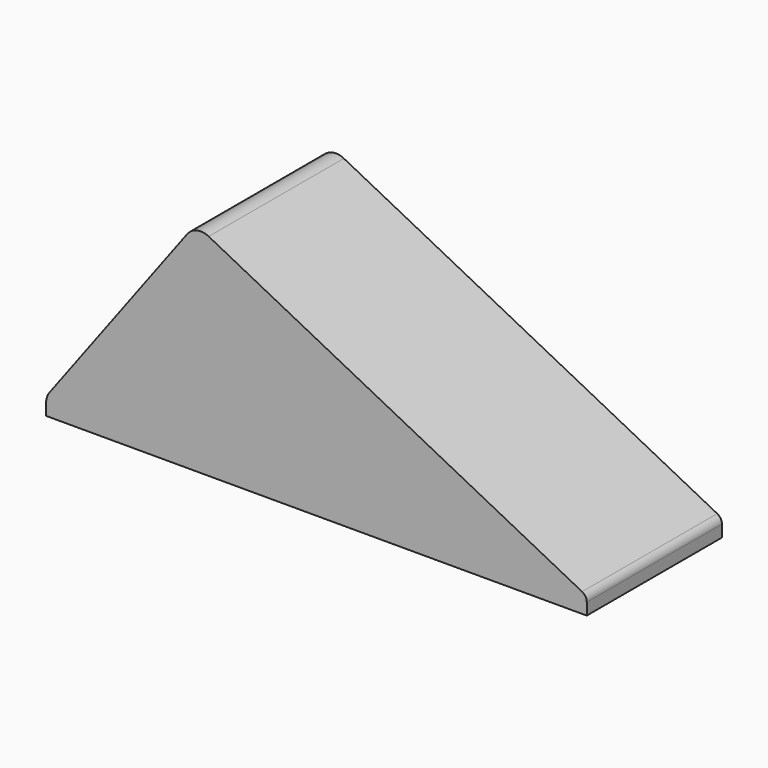
from build123d import *

# Parameters (mm, degrees)
F1_DEPTH = 25.0000008
F2_R     = 2.54
F3_DEPTH = 2.54
F4_R     = 2.54
F5_R     = 1.27


with BuildPart() as f1:
    # F0 (on Front) → F1 (new body)
    with BuildSketch(Plane.XZ):
        Polygon((-2.759046882, 29.6373917907), (-24.9089798809, 0), (55.0911141191, 0), align=None)
    extrude(amount=F1_DEPTH)

    # F2
    f2_edges = [f1.edges().sort_by_distance(p)[0] for p in [
        (-2.759047, -12.5, 29.637392),
    ]]
    fillet(f2_edges, radius=F2_R)

    # F3 (add): a face of the model
    f3_faces = [f1.faces().sort_by_distance(p)[0] for p in [
        (15.0910671191, -12.5000004, 0),
    ]]
    extrude(f3_faces, amount=F3_DEPTH)

    # F4
    f4_edges = [f1.edges().sort_by_distance(p)[0] for p in [
        (-24.90898, -12.5, 0),
    ]]
    fillet(f4_edges, radius=F4_R)

    # F5
    f5_edges = [f1.edges().sort_by_distance(p)[0] for p in [
        (55.091114, -12.5, 0),
    ]]
    fillet(f5_edges, radius=F5_R)


solid = f1.part
